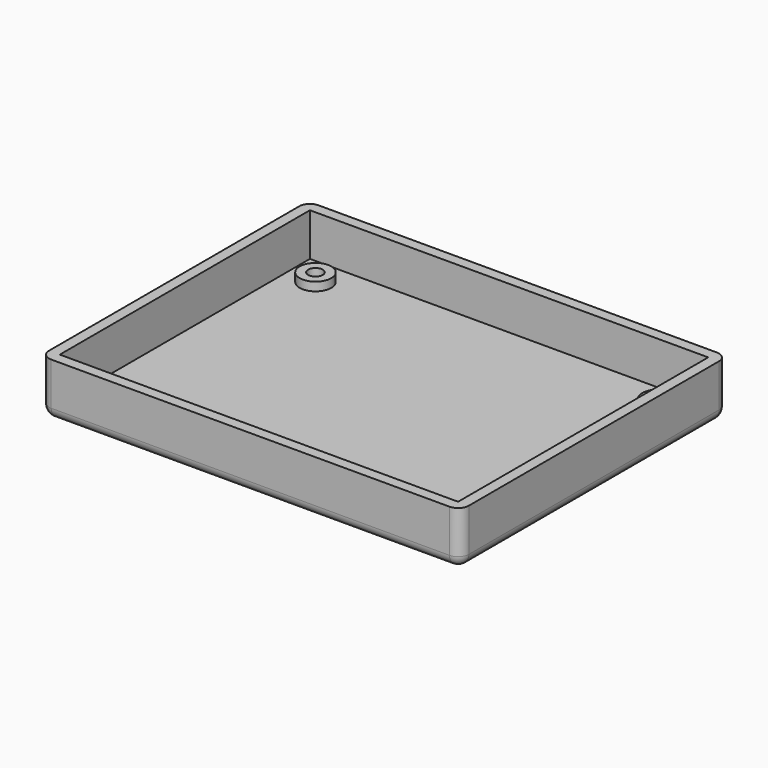
from build123d import *

# Parameters (mm, degrees)
SKETCH001_W                 = 93
SKETCH001_H                 = 73
PAD_DEPTH                   = 10
THICKNESS_T                 = 2.5
SKETCH002_R                 = 1.7
HOLE_DEPTH                  = 25
SKETCH003_R                 = 3.7
SKETCH003_R_2               = 1.7
PAD001_DEPTH                = 2
SKETCH003_MIRRORED_2_R      = 3.7
SKETCH003_MIRRORED_2_R_2    = 1.7
PAD001_MIRRORED_2_DEPTH     = 2
SKETCH005_R                 = 1.7
POCKET_DEPTH                = 254.24889
SKETCH005_MIRRORED004_2_R   = 1.7
POCKET_MIRRORED004_2_DEPTH  = 254.24889
SKETCH006_R                 = 3.2
SKETCH006_R_2               = 2.7
PAD003_DEPTH                = 2
SKETCH006_MIRRORED006_2_R   = 3.2
SKETCH006_MIRRORED006_2_R_2 = 2.7
PAD003_MIRRORED006_2_DEPTH  = 2


with BuildPart() as part:
    # Sketch001 → Pad (new body)
    with BuildSketch(Plane.XY):
        Rectangle(SKETCH001_W, SKETCH001_H)
    extrude(amount=PAD_DEPTH)

    # Thickness
    thickness_openings = [part.faces().sort_by_distance(p)[0] for p in [
        (0, 0, 10),
    ]]
    offset(amount=THICKNESS_T, openings=thickness_openings)

    # Sketch002 → Hole (cut)
    with BuildSketch(Plane.XY):
        with Locations((-40, 30)):
            Circle(SKETCH002_R)
    extrude(amount=-HOLE_DEPTH, mode=Mode.SUBTRACT)

    # Sketch003 → Pad001 (join)
    with BuildSketch(Plane.XY):
        with Locations((-40, 30)):
            Circle(SKETCH003_R)
        with Locations((-40, 30)):
            Circle(SKETCH003_R_2, mode=Mode.SUBTRACT)
    pad001 = extrude(amount=PAD001_DEPTH)

    # Sketch003 Mirrored 2 → Pad001 Mirrored 2 (add)
    with BuildSketch(Plane(origin=(0, 0, 0), x_dir=(-1, 0, 0), z_dir=(0, 0, -1))):
        with Locations((-40, 30)):
            Circle(SKETCH003_MIRRORED_2_R)
        with Locations((-40, 30)):
            Circle(SKETCH003_MIRRORED_2_R_2, mode=Mode.SUBTRACT)
    pad001_mirrored_2 = extrude(amount=-PAD001_MIRRORED_2_DEPTH)

    # Mirrored001: Pad001, Pad001 Mirrored 2 across Sketch003 H_Axis
    add(pad001.mirror(Plane.ZX))
    add(pad001_mirrored_2.mirror(Plane.ZX))

    # Sketch005 → Pocket (cut, through all)
    with BuildSketch(Plane.XY):
        with Locations((-40, 30)):
            Circle(SKETCH005_R)
    pocket = extrude(amount=-POCKET_DEPTH, mode=Mode.SUBTRACT)

    # Sketch005 Mirrored004 2 → Pocket Mirrored004 2 (cut, through all)
    with BuildSketch(Plane(origin=(0, 0, 0), x_dir=(-1, 0, 0), z_dir=(0, 0, -1))):
        with Locations((-40, 30)):
            Circle(SKETCH005_MIRRORED004_2_R)
    pocket_mirrored004_2 = extrude(amount=POCKET_MIRRORED004_2_DEPTH, mode=Mode.SUBTRACT)

    # Mirrored005: Pocket, Pocket Mirrored004 2 across Sketch005 H_Axis
    add(pocket.mirror(Plane.ZX), mode=Mode.SUBTRACT)
    add(pocket_mirrored004_2.mirror(Plane.ZX), mode=Mode.SUBTRACT)

    # Sketch006 (on Face35 of MultiTransform002) → Pad003 (join)
    with BuildSketch(Plane(origin=(0, 0, -2.5), x_dir=(1, 0, 0), z_dir=(0, 0, -1))):
        with Locations((-40, 30)):
            Circle(SKETCH006_R)
        with Locations((-40, 30)):
            Circle(SKETCH006_R_2, mode=Mode.SUBTRACT)
    pad003 = extrude(amount=PAD003_DEPTH)

    # Sketch006 Mirrored006 2 → Pad003 Mirrored006 2 (add)
    with BuildSketch(Plane(origin=(0, 0, -2.5), x_dir=(-1, 0, 0), z_dir=(0, 0, 1))):
        with Locations((-40, 30)):
            Circle(SKETCH006_MIRRORED006_2_R)
        with Locations((-40, 30)):
            Circle(SKETCH006_MIRRORED006_2_R_2, mode=Mode.SUBTRACT)
    pad003_mirrored006_2 = extrude(amount=-PAD003_MIRRORED006_2_DEPTH)

    # Mirrored007: Pad003, Pad003 Mirrored006 2 across Sketch006 H_Axis
    add(pad003.mirror(Plane(origin=(0, 0, -2.5), x_dir=(0, 0, -1), z_dir=(0, -1, 0))))
    add(pad003_mirrored006_2.mirror(Plane(origin=(0, 0, -2.5), x_dir=(0, 0, -1), z_dir=(0, -1, 0))))


solid = part.part
